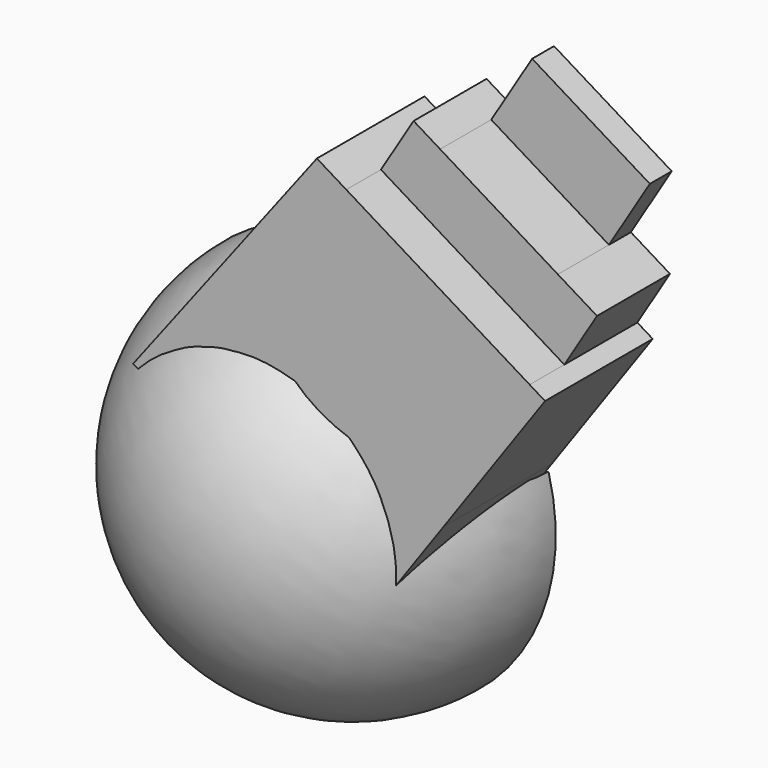
from build123d import *

# Parameters (mm, degrees)
F1_DEPTH = 14.986
F2_DEPTH = 10.16
F3_DEPTH = 3.048
F4_ANGLE = 180


with BuildPart() as f1:
    # F0 (on Front) → F1 (new body)
    with BuildSketch(Plane.XZ):
        with BuildLine():
            Line((3.7086177617, 37.0175018907), (-8.9261597644, 20.4820558655))
            ThreePointArc((-8.9261597644, 20.4820558655), (-0.4578536682, 20.8270955976), (7.5520650895, 18.0571746511))
            ThreePointArc((7.5520650895, 18.0571746511), (13.845355783, 12.742516126), (17.8411132664, 5.5393900598))
            Line((17.8411132664, 5.5393900598), (29.1195213795, 21.4962475002))
            Line((29.1195213795, 21.4962475002), (27.4037933786, 22.5442326945))
            Line((27.4037933786, 22.5442326945), (6.9773100774, 35.0209493194))
            Line((6.9773100774, 35.0209493194), (3.7086177617, 37.0175018907))
        make_face()
        with BuildLine():
            Line((7.5520650895, 18.0571746511), (-1.9527314573, 2.1239168471))
            Line((-1.9527314573, 2.1239168471), (10.5764307082, -4.7387895174))
            Line((10.5764307082, -4.7387895174), (17.8411132664, 5.5393900598))
            ThreePointArc((17.8411132664, 5.5393900598), (13.845355783, 12.742516126), (7.5520650895, 18.0571746511))
        make_face()
        with BuildLine():
            ThreePointArc((7.5520650895, 18.0571746511), (-0.4578536682, 20.8270955976), (-8.9261597644, 20.4820558655))
            Line((-8.9261597644, 20.4820558655), (-16.7574603111, 10.2330390364))
            Line((-16.7574603111, 10.2330390364), (-1.9527314573, 2.1239168471))
            Line((-1.9527314573, 2.1239168471), (7.5520650895, 18.0571746511))
        make_face()
    extrude(amount=F1_DEPTH)

    # F0 (on Front) → F2 (join)
    with BuildSketch(Plane.XZ):
        Polygon((10.6160217544, 40.9781322501), (6.9773100774, 35.0209493194), (27.4037933786, 22.5442326945), (31.0425050557, 28.5014156252), (26.68208847, 31.1648051722), (13.5737961434, 39.1714917067), align=None)
    extrude(amount=F2_DEPTH)

    # F0 (on Front) → F3 (join)
    with BuildSketch(Plane.XZ):
        Polygon((18.1310232729, 46.6324388981), (13.5737961434, 39.1714917067), (26.68208847, 31.1648051722), (31.2393155995, 38.6257523636), align=None)
    extrude(amount=F3_DEPTH)


with BuildPart() as f4:
    # F0 (on Front) → F4 (revolve)
    with BuildSketch(Plane.XZ):
        with BuildLine():
            ThreePointArc((-8.9261597644, 20.4820558655), (-26.2868557473, 1.9853163502), (-15.8200910429, -21.1224739883))
            Line((-15.8200910429, -21.1224739883), (-1.9527314573, 2.1239168471))
            Line((-1.9527314573, 2.1239168471), (-16.7574603111, 10.2330390364))
            Line((-16.7574603111, 10.2330390364), (-8.9261597644, 20.4820558655))
        make_face()
    revolve(axis=Axis((-4.1340129767, 0, -1.5326496686), (0.5123080389, 0, 0.858801766)), revolution_arc=F4_ANGLE)


solid = Compound([f1.part, f4.part])
